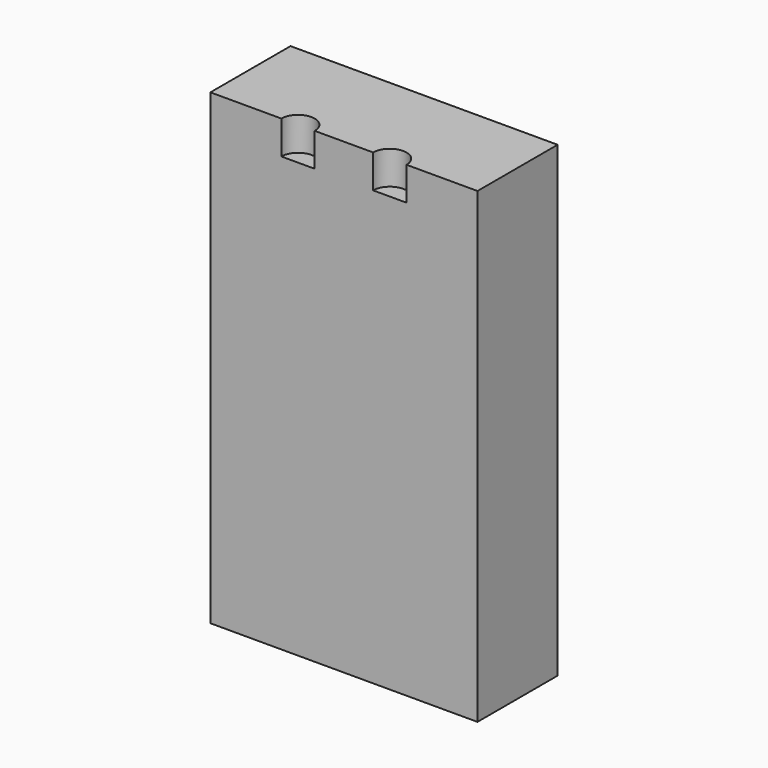
from build123d import *

# Parameters (mm, degrees)
F0_R     = 2.5
F1_DEPTH = 88.9
F2_DEPTH = 82.55
F3_D     = 4.2
F3_DEPTH = 20
F3_TIP   = 1.2618073


with BuildPart() as f1:
    # F0 (on Top) → F1 (new body)
    with BuildSketch(Plane.XY):
        with BuildLine():
            Line((19.84375, 0), (25.4, 0))
            Line((25.4, 0), (30.95625, 0))
            ThreePointArc((30.95625, 0), (34.13125, 3.175), (37.30625, 0))
            Line((37.30625, 0), (50.8, 0))
            Line((50.8, 0), (50.8, 19.05))
            Line((50.8, 19.05), (25.4, 19.05))
            Line((25.4, 19.05), (0, 19.05))
            Line((0, 19.05), (0, 0))
            Line((0, 0), (13.49375, 0))
            ThreePointArc((13.49375, 0), (16.66875, 3.175), (19.84375, 0))
        make_face()
        with Locations((12.7, 9.525)):
            Circle(F0_R, mode=Mode.SUBTRACT)
        with Locations((38.1, 9.525)):
            Circle(F0_R, mode=Mode.SUBTRACT)
        with Locations((12.7, 9.525)):
            Circle(F0_R)
        with Locations((38.1, 9.525)):
            Circle(F0_R)
    extrude(amount=F1_DEPTH)

    # F0 (on Top) → F2 (join)
    with BuildSketch(Plane.XY):
        with BuildLine():
            Line((16.66875, 0), (19.84375, 0))
            ThreePointArc((19.84375, 0), (16.66875, 3.175), (13.49375, 0))
            Line((13.49375, 0), (16.66875, 0))
        make_face()
        with BuildLine():
            ThreePointArc((37.30625, 0), (34.13125, 3.175), (30.95625, 0))
            Line((30.95625, 0), (34.13125, 0))
            Line((34.13125, 0), (37.30625, 0))
        make_face()
    extrude(amount=F2_DEPTH)

    # F3
    with Locations(Plane(origin=(0, 0, 0), x_dir=(1, 0, 0), z_dir=(0, 0, -1))):
        with Locations((12.7, -9.525), (38.1, -9.525)):
            Hole(F3_D / 2, depth=F3_DEPTH)
            with Locations((0, 0, -(F3_DEPTH + F3_TIP / 2))):  # 118° drill point
                Cone(0, F3_D / 2, F3_TIP, mode=Mode.SUBTRACT)


solid = f1.part
